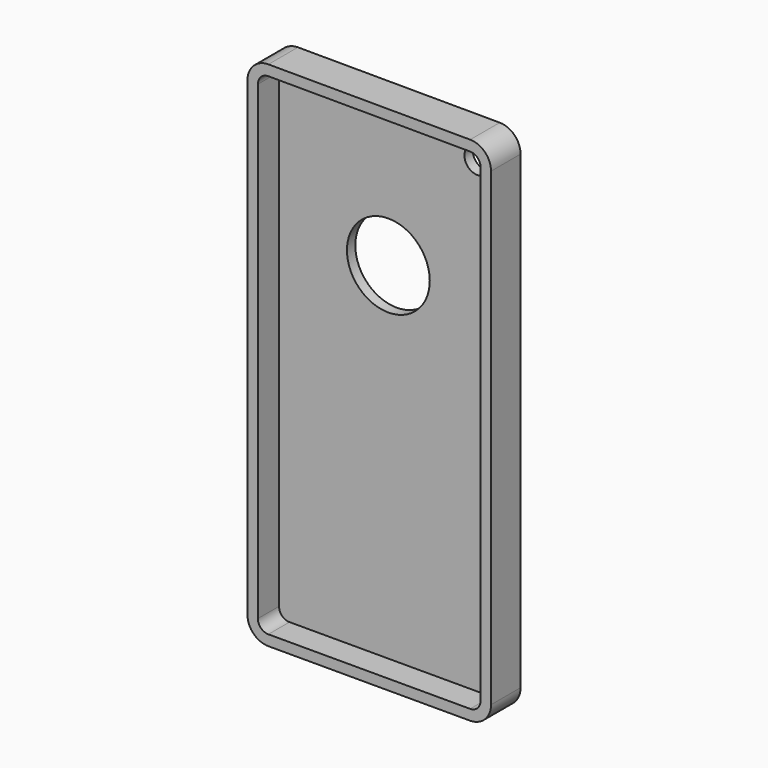
from build123d import *

# Parameters (mm, degrees)
F1_DEPTH = 8.9662
F2_R     = 5.08
F3_R     = 5.08
F4_R     = 3.1670818849
F5_DEPTH = 25.4
F6_R     = 10.0620941007
F7_DEPTH = 25.4
F8_T     = -2.54


with BuildPart() as f1:
    # F0 (on Front) → F1 (new body)
    with BuildSketch(Plane.XZ):
        Polygon((-75.792866245, 74.9588643271), (-75.792866245, -49.5011356729), (-16.610866245, -49.5011356729), (-16.610866245, 74.7600470389), align=None)
    extrude(amount=F1_DEPTH)

    # F2
    f2_edges = [f1.edges().sort_by_distance(p)[0] for p in [
        (-16.610866, -4.4831, 74.760047),
        (-16.610866, -4.4831, -49.501136),
    ]]
    fillet(f2_edges, radius=F2_R)

    # F3
    f3_edges = [f1.edges().sort_by_distance(p)[0] for p in [
        (-75.792866, -4.4831, 74.958864),
        (-75.792866, -4.4831, -49.501136),
    ]]
    fillet(f3_edges, radius=F3_R)

    # F4 (on face) → F5 (cut)
    with BuildSketch(Plane.XZ.offset(8.9662)):
        with Locations((-25.0480864197, 66.6592344642)):
            Circle(F4_R)
    extrude(amount=-F5_DEPTH, mode=Mode.SUBTRACT)

    # F6 (on face) → F7 (cut)
    with BuildSketch(Plane.XZ.offset(8.9662)):
        with Locations((-46.6981939971, 37.1179692447)):
            Circle(F6_R)
    extrude(amount=-F7_DEPTH, mode=Mode.SUBTRACT)

    # F8
    f8_openings = [f1.faces().sort_by_distance(p)[0] for p in [
        (-46.282621, -8.9662, 11.323406),
        (-56.760288, -4.4831, 37.117969),
        (-28.215168, -4.4831, 66.659234),
    ]]
    offset(amount=F8_T, openings=f8_openings)


solid = f1.part
